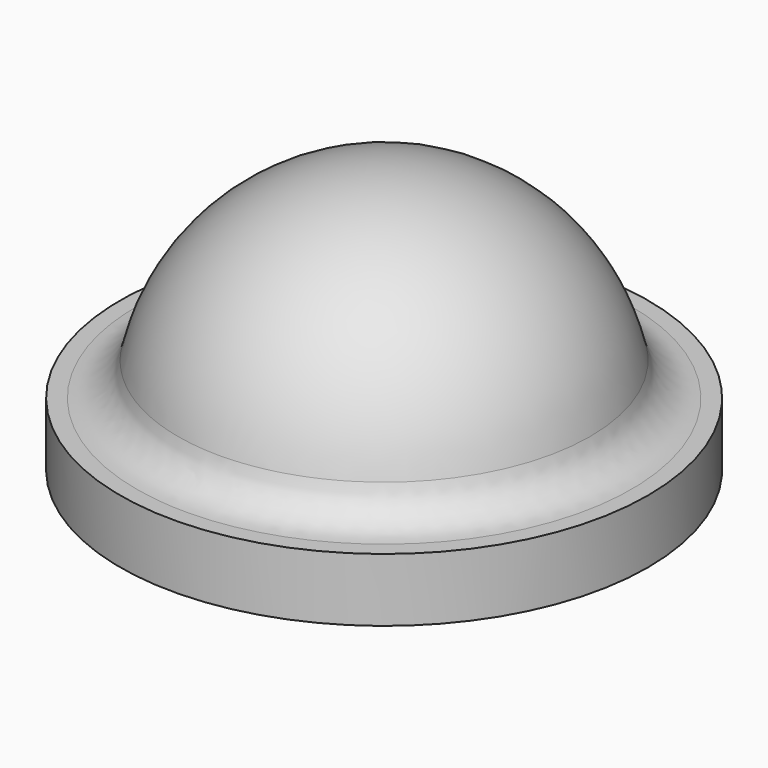
from build123d import *

# Parameters (mm, degrees)
SKETCH_R          = 12.5
PAD_DEPTH         = 3
SPHERE_ANGLE      = 180
SPHERE_ROLL_ANGLE = 90
FILLET_R          = 2


with BuildPart() as base_pad:
    # Sketch → Pad (new body)
    with BuildSketch(Plane.XY):
        Circle(SKETCH_R)
    extrude(amount=PAD_DEPTH)


with BuildPart() as fillet_body:
    # Sphere → Sphere (revolve)
    with BuildSketch(Plane.XZ):
        with BuildLine():
            ThreePointArc((0, -10), (10, 0), (0, 10))
            Line((0, 10), (0, -10))
        make_face()
    revolve(axis=Axis((0, 0, 0), (0, 0, 1)), revolution_arc=SPHERE_ANGLE)


with BuildPart() as fillet_body_1:
    # Sphere roll: moved
    add(fillet_body.part.rotate(Axis((0, 0, 0), (1, 0, 0)), SPHERE_ROLL_ANGLE))


with BuildPart() as fillet_body_2:
    # Sphere placement: moved
    add(fillet_body_1.part.moved(Location((0, 0, 2.4))))

    # Fusion: union Base-pad
    add(base_pad.part)

    # Fillet
    fillet_edges = [fillet_body_2.edges().sort_by_distance(p)[0] for p in [
        (0, -9.981984, 3),
    ]]
    fillet(fillet_edges, radius=FILLET_R)


solid = fillet_body_2.part
